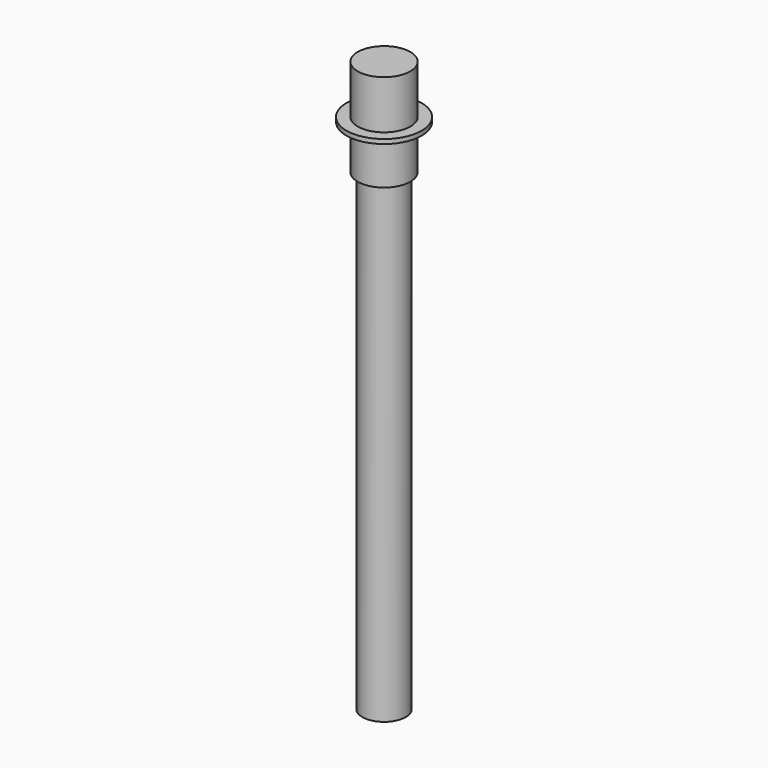
from build123d import *

# Parameters (mm, degrees)
F0_R     = 124.46
F1_DEPTH = 2717.8
F2_R     = 151.13
F3_DEPTH = 254
F4_R     = 215.9
F4_R_2   = 151.13
F5_DEPTH = 25.4
F6_R     = 151.13
F7_DEPTH = 279.4


with BuildPart() as f1:
    # F0 (on Top) → F1 (new body)
    with BuildSketch(Plane.XY):
        Circle(F0_R)
    extrude(amount=-F1_DEPTH)

    # F2 (on Top) → F3 (join)
    with BuildSketch(Plane.XY):
        Circle(F2_R)
    extrude(amount=F3_DEPTH)


with BuildPart() as f5:
    # F4 (on face) → F5 (new body)
    with BuildSketch(Plane.XY.offset(254)):
        Circle(F4_R)
        Circle(F4_R_2, mode=Mode.SUBTRACT)
        Circle(F4_R_2)
    extrude(amount=F5_DEPTH)

    # F6 (on face) → F7 (join)
    with BuildSketch(Plane.XY.offset(279.4)):
        Circle(F6_R)
    extrude(amount=F7_DEPTH)


solid = Compound([f1.part, f5.part])
